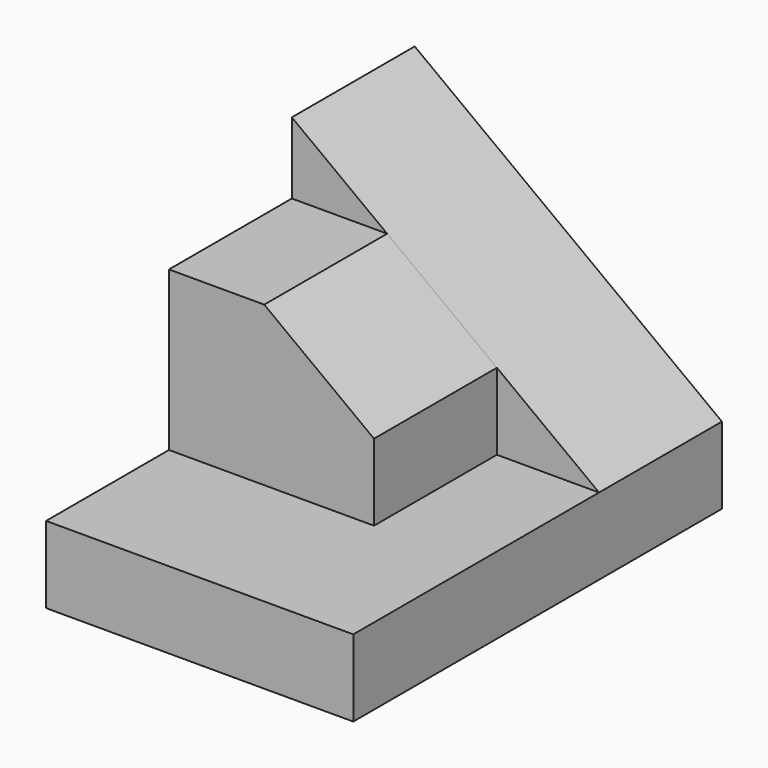
from build123d import *

# Parameters (mm, degrees)
F0_W     = 25.4
F0_H     = 6.35
F1_DEPTH = 38.1
F3_DEPTH = 12.7
F5_DEPTH = 12.7


with BuildPart() as f1:
    # F0 (on Front) → F1 (new body)
    with BuildSketch(Plane.XZ):
        with Locations((12.7, 3.175)):
            Rectangle(F0_W, F0_H)
    extrude(amount=F1_DEPTH)

    # F2 (on face) → F3 (join)
    with BuildSketch(Plane(origin=(0, 0, 0), x_dir=(-1, 0, 0), z_dir=(0, 1, 0))):
        Polygon((-25.4, 6.35), (0, 6.35), (0, 25.4), align=None)
    extrude(amount=-F3_DEPTH)

    # F4 (on face) → F5 (join)
    with BuildSketch(Plane.XZ.offset(12.7)):
        Polygon((0, 19.490924), (0, 6.35), (16.953341, 6.35), (16.953341, 12.684994), (7.878768, 19.490924), align=None)
    extrude(amount=F5_DEPTH)


solid = f1.part
